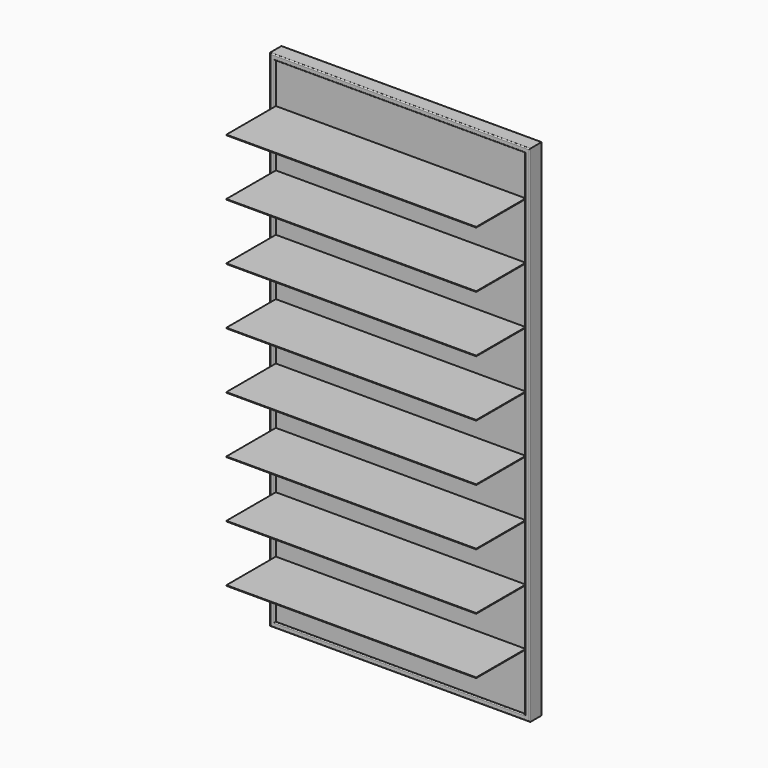
from build123d import *

# Parameters (mm, degrees)
F0_W     = 1282.7
F0_H     = 2489.2
F0_W_2   = 1231.9
F0_H_2   = 2438.4
F1_DEPTH = 76.2
F2_R     = 5.08
F4_W     = 1231.9
F4_H     = 2438.4
F5_DEPTH = 12.7
F6_W     = 1231.9
F6_H     = 3.175
F7_DEPTH = 304.8


with BuildPart() as f1:
    # F0 (on Front) → F1 (new body)
    with BuildSketch(Plane.XZ):
        with Locations((641.35, 1244.6)):
            Rectangle(F0_W, F0_H)
        with Locations((641.35, 1244.6)):
            Rectangle(F0_W_2, F0_H_2, mode=Mode.SUBTRACT)
    extrude(amount=F1_DEPTH)

    # F2
    f2_edges = [f1.edges().sort_by_distance(p)[0] for p in [
        (0, -76.2, 1244.6),
        (641.35, -76.2, 0),
        (1282.7, -76.2, 1244.6),
        (641.35, -76.2, 2489.2),
        (25.4, -76.2, 1244.6),
        (641.35, -76.2, 2463.8),
        (1257.3, -76.2, 1244.6),
        (641.35, -76.2, 25.4),
        (0, 0, 1244.6),
        (641.35, 0, 0),
        (1282.7, 0, 1244.6),
        (641.35, 0, 2489.2),
        (25.4, 0, 1244.6),
        (641.35, 0, 2463.8),
        (1257.3, 0, 1244.6),
        (641.35, 0, 25.4),
    ]]
    fillet(f2_edges, radius=F2_R)


with BuildPart() as f5:
    # F4 (on offset) → F5 (new body)
    with BuildSketch(Plane.XZ.offset(69.85)):
        with Locations((641.35, 1244.6)):
            Rectangle(F4_W, F4_H)
    extrude(amount=-F5_DEPTH)


with BuildPart() as f7:
    # F6 (on face) → F7 (new body)
    with BuildSketch(Plane.XZ.offset(69.85)):
        with Locations((641.35, 306.3875)):
            Rectangle(F6_W, F6_H)
    extrude(amount=F7_DEPTH)


with BuildPart() as f7b:
    # F6 (on face) → F7, piece 2 (new body)
    with BuildSketch(Plane.XZ.offset(69.85)):
        with Locations((641.35, 585.7875)):
            Rectangle(F6_W, F6_H)
    extrude(amount=F7_DEPTH)


with BuildPart() as f7c:
    # F6 (on face) → F7, piece 3 (new body)
    with BuildSketch(Plane.XZ.offset(69.85)):
        with Locations((641.35, 865.1875)):
            Rectangle(F6_W, F6_H)
    extrude(amount=F7_DEPTH)


with BuildPart() as f7d:
    # F6 (on face) → F7, piece 4 (new body)
    with BuildSketch(Plane.XZ.offset(69.85)):
        with Locations((641.35, 1144.5875)):
            Rectangle(F6_W, F6_H)
    extrude(amount=F7_DEPTH)


with BuildPart() as f7e:
    # F6 (on face) → F7, piece 5 (new body)
    with BuildSketch(Plane.XZ.offset(69.85)):
        with Locations((641.35, 1423.9875)):
            Rectangle(F6_W, F6_H)
    extrude(amount=F7_DEPTH)


with BuildPart() as f7f:
    # F6 (on face) → F7, piece 6 (new body)
    with BuildSketch(Plane.XZ.offset(69.85)):
        with Locations((641.35, 1703.3875)):
            Rectangle(F6_W, F6_H)
    extrude(amount=F7_DEPTH)


with BuildPart() as f7g:
    # F6 (on face) → F7, piece 7 (new body)
    with BuildSketch(Plane.XZ.offset(69.85)):
        with Locations((641.35, 1982.7875)):
            Rectangle(F6_W, F6_H)
    extrude(amount=F7_DEPTH)


with BuildPart() as f7h:
    # F6 (on face) → F7, piece 8 (new body)
    with BuildSketch(Plane.XZ.offset(69.85)):
        with Locations((641.35, 2262.1875)):
            Rectangle(F6_W, F6_H)
    extrude(amount=F7_DEPTH)


solid = Compound([f1.part, f5.part, f7.part, f7b.part, f7c.part, f7d.part, f7e.part, f7f.part, f7g.part, f7h.part])
